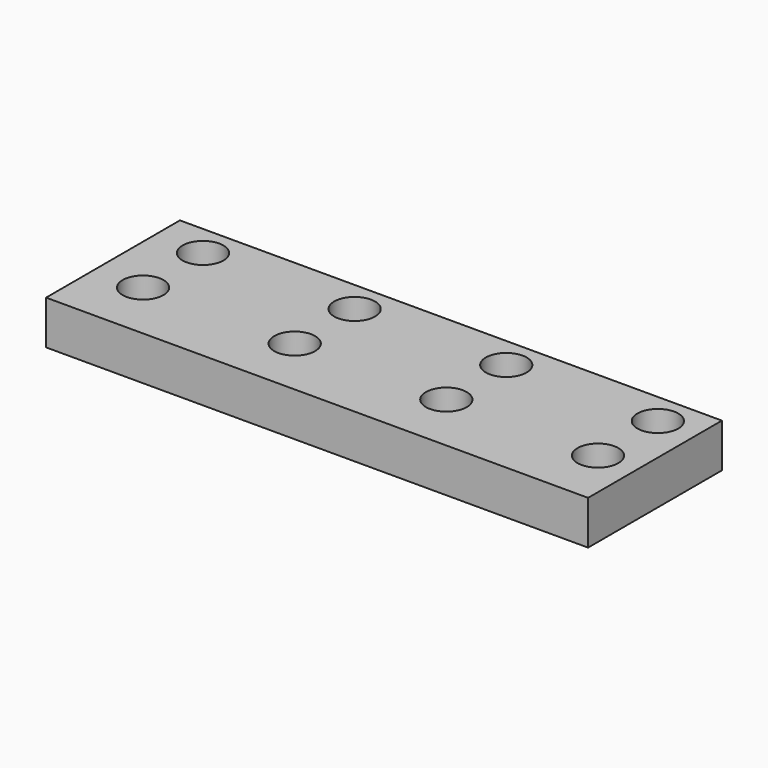
from build123d import *

# Parameters (mm, degrees)
F0_W     = 75.358253
F0_H     = 23.258722
F0_R     = 2.839088
F1_DEPTH = 6.096


with BuildPart() as f1:
    # F0 (on Top) → F1 (new body)
    with BuildSketch(Plane.XY):
        with Locations((-4.302865, 32.445916)):
            Rectangle(F0_W, F0_H)
        with Locations((-35.236962, 29.242121)):
            Circle(F0_R, mode=Mode.SUBTRACT)
        with Locations((-14.154962, 29.242121)):
            Circle(F0_R, mode=Mode.SUBTRACT)
        with Locations((6.927038, 29.242121)):
            Circle(F0_R, mode=Mode.SUBTRACT)
        with Locations((28.009038, 29.242121)):
            Circle(F0_R, mode=Mode.SUBTRACT)
        with Locations((-35.236962, 39.656121)):
            Circle(F0_R, mode=Mode.SUBTRACT)
        with Locations((-14.154962, 39.656121)):
            Circle(F0_R, mode=Mode.SUBTRACT)
        with Locations((6.927038, 39.656121)):
            Circle(F0_R, mode=Mode.SUBTRACT)
        with Locations((28.009038, 39.656121)):
            Circle(F0_R, mode=Mode.SUBTRACT)
    extrude(amount=F1_DEPTH)


solid = f1.part
